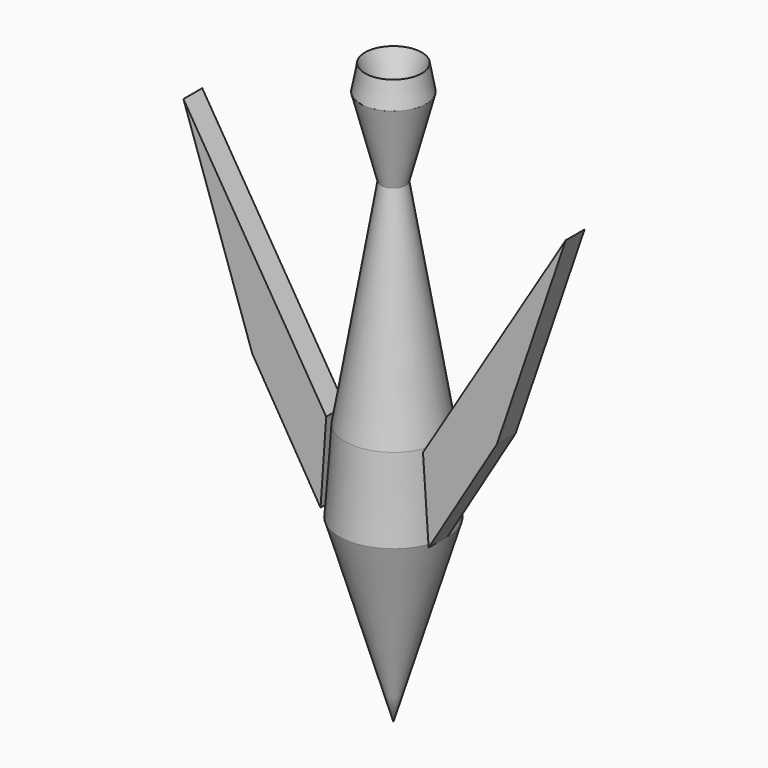
from build123d import *

# Parameters (mm, degrees)
F1_DEPTH = 10


with BuildPart() as f1:
    # F0 (on Front) → F1 (new body)
    with BuildSketch(Plane.XZ):
        Polygon((20.577798, -20.569425), (22.982594, -55.404078), (51.984232, -7.249753), (81.287712, 78.639761), align=None)
    extrude(amount=F1_DEPTH)


with BuildPart() as f2_1:
    # F2: instance of F1
    add(f1.part.mirror(Plane.YZ))


with BuildPart() as f3:
    # F0 (on Front) → F3 (revolve)
    with BuildSketch(Plane.XZ):
        Polygon((12.080834, 114.532284), (0, 76.579183), (0, 0), (0, -132.175684), (22.982594, -55.404078), (20.577798, -20.569425), (5.283264, 70.348077), (14.063459, 103.769466), align=None)
    revolve(axis=Axis((0, 0, -66.087842), (0, 0, 1)))


solid = Compound([f1.part, f2_1.part, f3.part])
